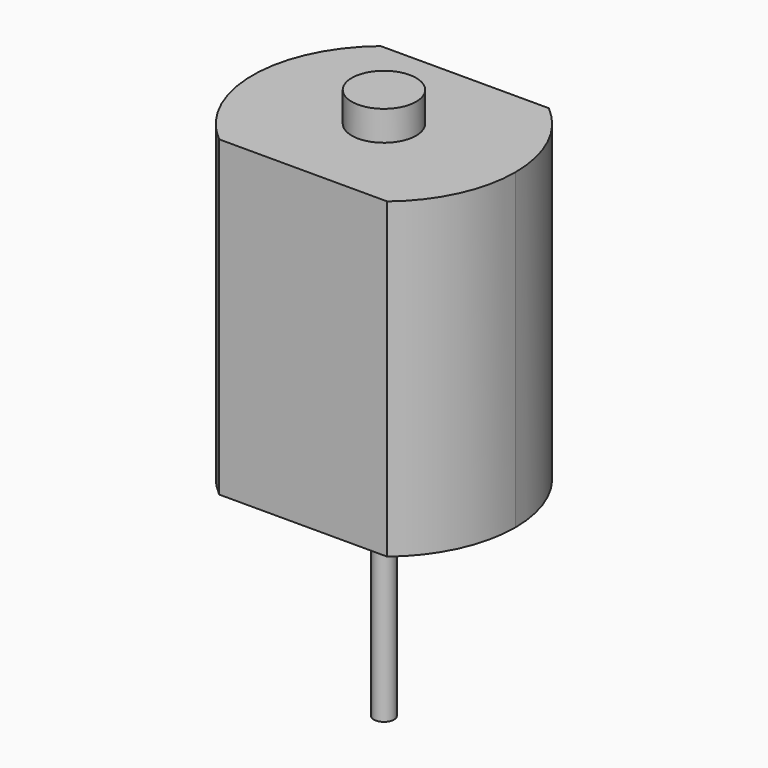
from build123d import *

# Parameters (mm, degrees)
F1_DEPTH = 30.35
F2_R     = 3.05
F2_R_2   = 0.975
F3_DEPTH = 1.4
F4_R     = 3.125
F5_DEPTH = 2.9
F6_DEPTH = 20.25


with BuildPart() as f1:
    # F0 (on Top) → F1 (new body)
    with BuildSketch(Plane.XY):
        with BuildLine():
            ThreePointArc((8.156133, -9.8), (11.544548, -5.411645), (12.75, 0))
            ThreePointArc((12.75, 0), (11.544548, 5.411645), (8.156133, 9.8))
            Line((8.156133, 9.8), (-8.156133, 9.8))
            ThreePointArc((-8.156133, 9.8), (-12.75, 0), (-8.156133, -9.8))
            Line((-8.156133, -9.8), (8.156133, -9.8))
        make_face()
    extrude(amount=F1_DEPTH)


with BuildPart() as f3:
    # F2 (on face) → F3 (new body)
    with BuildSketch(Plane(origin=(0, 0, 0), x_dir=(1, 0, 0), z_dir=(0, 0, -1))):
        Circle(F2_R)
        Circle(F2_R_2, mode=Mode.SUBTRACT)
    extrude(amount=F3_DEPTH)


with BuildPart() as f5:
    # F4 (on face) → F5 (new body)
    with BuildSketch(Plane.XY.offset(30.35)):
        Circle(F4_R)
    extrude(amount=F5_DEPTH)


with BuildPart() as f6:
    # F2 (on face) → F6 (new body)
    with BuildSketch(Plane(origin=(0, 0, 0), x_dir=(1, 0, 0), z_dir=(0, 0, -1))):
        Circle(F2_R_2)
    extrude(amount=F6_DEPTH)


solid = Compound([f1.part, f3.part, f5.part, f6.part])
